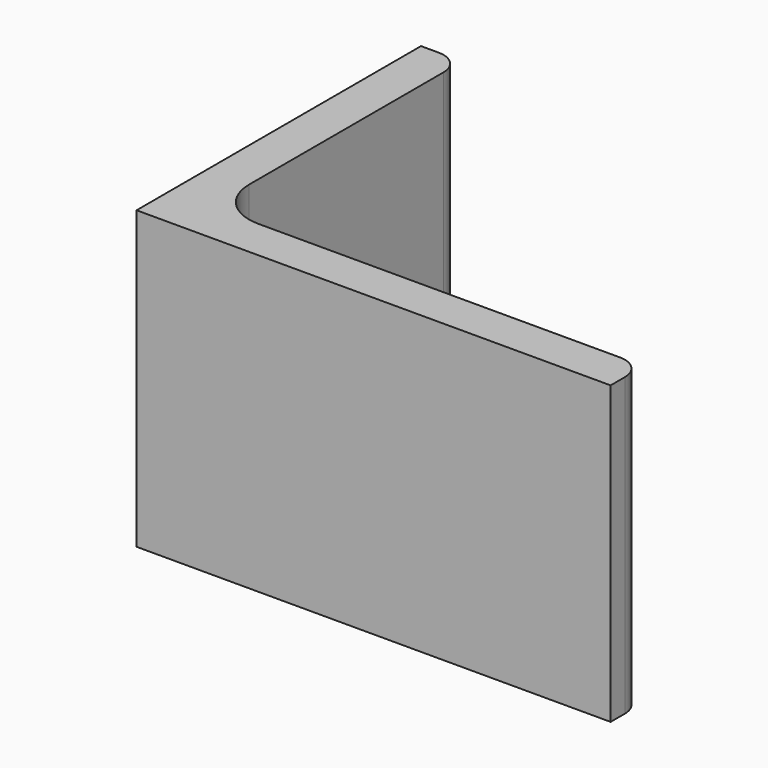
from build123d import *

# Parameters (mm, degrees)
EXTRUDE_DEPTH = 50


with BuildPart() as part:
    # Sketch → Extrude (new body)
    with BuildSketch(Plane.XY):
        with BuildLine():
            Line((0, 0), (80, 0))
            Line((80, 0), (80, 3))
            ThreePointArc((80, 3), (78.828427, 5.828427), (76, 7))
            Line((76, 7), (15, 7))
            ThreePointArc((7, 15), (9.343146, 9.343146), (15, 7))
            Line((7, 56), (7, 15))
            ThreePointArc((7, 56), (5.828427, 58.828427), (3, 60))
            Line((0, 60), (3, 60))
            Line((0, 0), (0, 60))
        make_face()
    extrude(amount=EXTRUDE_DEPTH)


solid = part.part
